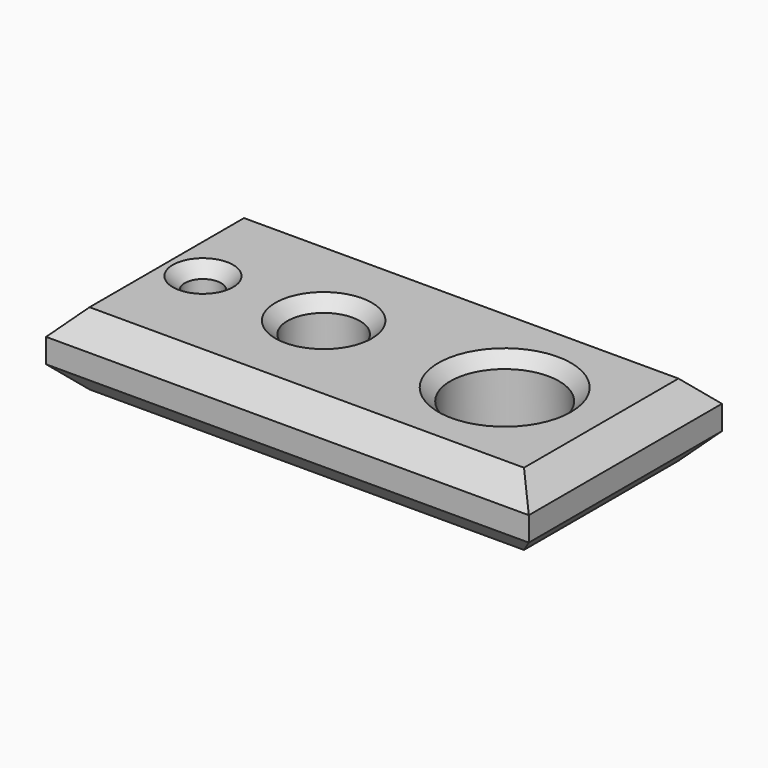
from build123d import *

# Parameters (mm, degrees)
F0_W     = 200
F0_H     = 100
F0_R     = 7.5
F0_R_2   = 15
F0_R_3   = 22.5
F1_DEPTH = 30
F2_SIZE2 = 5
F2_SIZE  = 5
F3_SIZE2 = 10
F3_SIZE  = 10


with BuildPart() as f1:
    # F0 (on Top) → F1 (new body)
    with BuildSketch(Plane.XY):
        Rectangle(F0_W, F0_H)
        with Locations((-75, 0)):
            Circle(F0_R, mode=Mode.SUBTRACT)
        with Locations((-25, 0)):
            Circle(F0_R_2, mode=Mode.SUBTRACT)
        with Locations((50, 0)):
            Circle(F0_R_3, mode=Mode.SUBTRACT)
    extrude(amount=-F1_DEPTH)

    # F2
    f2_edges = [f1.edges().sort_by_distance(p)[0] for p in [
        (-82.5, 0, 0),
        (-40, 0, 0),
        (27.5, 0, 0),
    ]]
    chamfer(f2_edges, length=F2_SIZE, length2=F2_SIZE2)

    # F3
    f3_edges = [f1.edges().sort_by_distance(p)[0] for p in [
        (0, -50, 0),
        (100, 0, 0),
        (100, 0, -30),
        (0, -50, -30),
        (0, 50, 0),
        (0, 50, -30),
        (-100, 0, -30),
        (-100, 0, 0),
    ]]
    chamfer(f3_edges, length=F3_SIZE, length2=F3_SIZE2)


solid = f1.part
